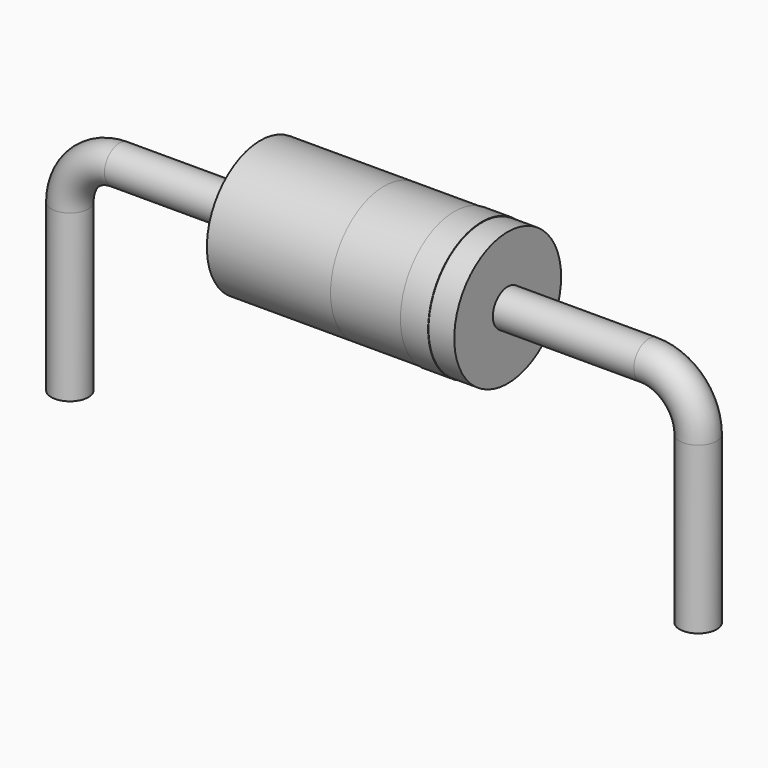
from build123d import *

# Parameters (mm, degrees)
F1_R          = 0.375
F3_R          = 1.35
F4_DEPTH      = 2.5
F4_DEPTH_BACK = 2.5
F6_START      = -0.52
F5_R          = 1.36
F6_DEPTH      = 0.56


with BuildPart() as f2:
    # F2: sweep along a path in F0
    with BuildLine(Plane.XZ) as f2_path:
        Line((-6.35, 0), (-6.35, 3.35))
        ThreePointArc((-6.35, 3.35), (-6.0571067812, 4.0571067812), (-5.35, 4.35))
        Line((-5.35, 4.35), (5.35, 4.35))
        ThreePointArc((5.35, 4.35), (6.0571067812, 4.0571067812), (6.35, 3.35))
        Line((6.35, 3.35), (6.35, 0))
    # F1 (on Top) → F2 (sweep)
    with BuildSketch(Plane.XY):
        with Locations((-6.35, 0)):
            Circle(F1_R)
    sweep(path=f2_path.line)


with BuildPart() as f4:
    # F3 (on Right) → F4 (new body, two sides)
    with BuildSketch(Plane.YZ) as f4_sk:
        with Locations((0, 4.35)):
            Circle(F3_R)
    extrude(amount=-F4_DEPTH)
    extrude(f4_sk.sketch, amount=F4_DEPTH_BACK)


with BuildPart() as f6:
    # F5 (on face) → F6 (new body)
    with BuildSketch(Plane.YZ.offset(2.5).offset(F6_START)):
        with Locations((0, 4.35)):
            Circle(F5_R)
    extrude(amount=-F6_DEPTH)


solid = Compound([f2.part, f4.part, f6.part])
